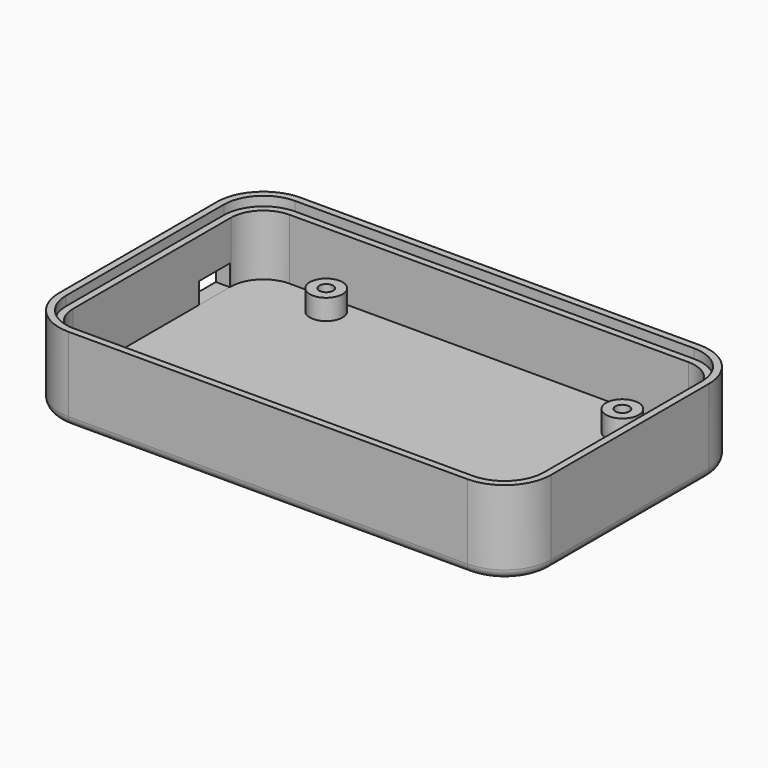
from build123d import *

# Parameters (mm, degrees)
PAD_DEPTH       = 13
PAD001_DEPTH    = 3
SKETCH002_R     = 1.5
POCKET_DEPTH    = 3.001
SKETCH003_R     = 3.5
SKETCH003_R_2   = 1.5
PAD002_DEPTH    = 4.4
PAD003_DEPTH    = 2
SKETCH014_W     = 8.25
SKETCH014_H     = 4.5
POCKET006_DEPTH = 3
PAD010_DEPTH    = 1.5
FILLET001_R     = 2
FILLET003_R     = 0.25


with BuildPart() as part:
    # Sketch → Pad (new body)
    with BuildSketch(Plane.XY.offset(-6)):
        with BuildLine():
            Line((3.5, 58.5), (89, 58.5))
            ThreePointArc((99, 48.5), (96.071068, 55.571068), (89, 58.5))
            Line((99, 48.5), (99, 6.25))
            ThreePointArc((89, -3.75), (96.071068, -0.821068), (99, 6.25))
            Line((89, -3.75), (3.5, -3.75))
            ThreePointArc((-6.5, 6.25), (-3.571068, -0.821068), (3.5, -3.75))
            Line((-6.5, 6.25), (-6.5, 48.5))
            ThreePointArc((3.5, 58.5), (-3.571068, 55.571068), (-6.5, 48.5))
        make_face()
        with BuildLine():
            Line((3.5, 55.5), (89, 55.5))
            ThreePointArc((96, 48.5), (93.949747, 53.449747), (89, 55.5))
            Line((96, 48.5), (96, 6.25))
            ThreePointArc((89, -0.75), (93.949747, 1.300253), (96, 6.25))
            Line((89, -0.75), (3.5, -0.75))
            ThreePointArc((-3.5, 6.25), (-1.449747, 1.300253), (3.5, -0.75))
            Line((-3.5, 6.25), (-3.5, 48.5))
            ThreePointArc((3.5, 55.5), (-1.449747, 53.449747), (-3.5, 48.5))
        make_face(mode=Mode.SUBTRACT)
    extrude(amount=PAD_DEPTH)

    # Sketch001 → Pad001 (new body)
    with BuildSketch(Plane(origin=(0, 0, -6), x_dir=(1, 0, 0), z_dir=(0, 0, -1))):
        with BuildLine():
            Line((3.5, 3.75), (89, 3.75))
            ThreePointArc((99, -6.25), (96.071068, 0.821068), (89, 3.75))
            Line((99, -6.25), (99, -48.5))
            ThreePointArc((89, -58.5), (96.071068, -55.571068), (99, -48.5))
            Line((89, -58.5), (3.5, -58.5))
            ThreePointArc((-6.5, -48.5), (-3.571068, -55.571068), (3.5, -58.5))
            Line((-6.5, -48.5), (-6.5, -6.25))
            ThreePointArc((3.5, 3.75), (-3.571068, 0.821068), (-6.5, -6.25))
        make_face()
    extrude(amount=PAD001_DEPTH)

    # Sketch002 → Pocket (cut, through all)
    with BuildSketch(Plane.XY.offset(-6)):
        with Locations((14.6, 51.45)):
            Circle(SKETCH002_R)
        with Locations((14.6, 3.15)):
            Circle(SKETCH002_R)
        with Locations((80.65, 48.25)):
            Circle(SKETCH002_R)
        with Locations((80.65, 6.35)):
            Circle(SKETCH002_R)
    extrude(amount=-POCKET_DEPTH, mode=Mode.SUBTRACT)

    # Sketch003 → Pad002 (new body)
    with BuildSketch(Plane.XY.offset(-6)):
        with Locations((14.6, 3.15)):
            Circle(SKETCH003_R)
        with Locations((14.6, 3.15)):
            Circle(SKETCH003_R_2, mode=Mode.SUBTRACT)
        with Locations((14.6, 51.45)):
            Circle(SKETCH003_R)
        with Locations((14.6, 51.45)):
            Circle(SKETCH003_R_2, mode=Mode.SUBTRACT)
        with Locations((80.65, 6.35)):
            Circle(SKETCH003_R)
        with Locations((80.65, 6.35)):
            Circle(SKETCH003_R_2, mode=Mode.SUBTRACT)
        with Locations((80.65, 48.25)):
            Circle(SKETCH003_R)
        with Locations((80.65, 48.25)):
            Circle(SKETCH003_R_2, mode=Mode.SUBTRACT)
    extrude(amount=PAD002_DEPTH)

    # Sketch004 → Pad003 (new body)
    with BuildSketch(Plane.XY.offset(7)):
        with BuildLine():
            Line((3.5, 58.5), (89, 58.5))
            ThreePointArc((99, 48.5), (96.071068, 55.571068), (89, 58.5))
            Line((99, 48.5), (99, 6.25))
            ThreePointArc((89, -3.75), (96.071068, -0.821068), (99, 6.25))
            Line((89, -3.75), (3.5, -3.75))
            ThreePointArc((-6.5, 6.25), (-3.571068, -0.821068), (3.5, -3.75))
            Line((-6.5, 6.25), (-6.5, 48.5))
            ThreePointArc((3.5, 58.5), (-3.571068, 55.571068), (-6.5, 48.5))
        make_face()
        with BuildLine():
            Line((3.5, 57), (89, 57))
            ThreePointArc((97.5, 48.5), (95.010408, 54.510408), (89, 57))
            Line((97.5, 48.5), (97.5, 6.25))
            ThreePointArc((89, -2.25), (95.010408, 0.239592), (97.5, 6.25))
            Line((89, -2.25), (3.5, -2.25))
            ThreePointArc((-5, 6.25), (-2.510408, 0.239592), (3.5, -2.25))
            Line((-5, 6.25), (-5, 48.5))
            ThreePointArc((3.5, 57), (-2.510408, 54.510408), (-5, 48.5))
        make_face(mode=Mode.SUBTRACT)
    extrude(amount=PAD003_DEPTH)

    # Sketch014 → Pocket006 (cut)
    with BuildSketch(Plane(origin=(-6.5, 0, -6), x_dir=(0, -1, 0), z_dir=(-1, 0, 0))):
        with Locations((-44.125, 2.25)):
            Rectangle(SKETCH014_W, SKETCH014_H)
    extrude(amount=-POCKET006_DEPTH, mode=Mode.SUBTRACT)

    # Sketch015002 → Pad010 (new body)
    with BuildSketch(Plane(origin=(0, 0, -9), x_dir=(1, 0, 0), z_dir=(0, 0, -1))):
        with BuildLine():
            Line((16, -8), (16, -22))
            ThreePointArc((14, -22), (15, -23), (16, -22))
            Line((14, -22), (14, -8))
            ThreePointArc((16, -8), (15, -7), (14, -8))
        make_face()
        with BuildLine():
            Line((22, -8), (22, -26))
            ThreePointArc((20, -26), (21, -27), (22, -26))
            Line((20, -26), (20, -8))
            ThreePointArc((22, -8), (21, -7), (20, -8))
        make_face()
        with BuildLine():
            Line((28, -8), (28, -30))
            ThreePointArc((26, -30), (27, -31), (28, -30))
            Line((26, -30), (26, -8))
            ThreePointArc((28, -8), (27, -7), (26, -8))
        make_face()
        with BuildLine():
            Line((34, -8), (34, -34))
            ThreePointArc((32, -34), (33, -35), (34, -34))
            Line((32, -34), (32, -8))
            ThreePointArc((34, -8), (33, -7), (32, -8))
        make_face()
        with BuildLine():
            Line((40, -8), (40, -38))
            ThreePointArc((38, -38), (39, -39), (40, -38))
            Line((38, -38), (38, -8))
            ThreePointArc((40, -8), (39, -6.999994), (38, -8))
        make_face()
        with BuildLine():
            Line((46, -8), (46, -42))
            ThreePointArc((44, -42), (45, -42.999994), (46, -42))
            Line((44, -42), (44, -8))
            ThreePointArc((46, -8), (45, -6.999994), (44, -8))
        make_face()
        with BuildLine():
            Line((52, -8), (52, -46))
            ThreePointArc((50, -46), (51, -46.999994), (52, -46))
            Line((50, -46), (50, -8))
            ThreePointArc((52, -8), (51, -6.999994), (50, -8))
        make_face()
        with BuildLine():
            Line((58, -8), (58, -46))
            ThreePointArc((56, -46), (57, -46.999994), (58, -46))
            Line((56, -46), (56, -8))
            ThreePointArc((58, -8), (57, -6.999994), (56, -8))
        make_face()
        with BuildLine():
            Line((64, -8), (64, -46))
            ThreePointArc((62, -46), (63, -46.999994), (64, -46))
            Line((62, -46), (62, -8))
            ThreePointArc((64, -8), (63, -6.999994), (62, -8))
        make_face()
        with BuildLine():
            Line((70, -8), (70, -46))
            ThreePointArc((68, -46), (69, -46.999994), (70, -46))
            Line((68, -46), (68, -8))
            ThreePointArc((70, -8), (69, -6.999994), (68, -8))
        make_face()
    extrude(amount=PAD010_DEPTH)

    # Fillet001
    fillet001_edges = [part.edges().sort_by_distance(p)[0] for p in [
        (46.25, -3.75, -9),
    ]]
    fillet(fillet001_edges, radius=FILLET001_R)

    # Fillet003
    fillet003_edges = [part.edges().sort_by_distance(p)[0] for p in [
        (14, 15, -10.5),
        (15, 7, -10.5),
        (16, 15, -10.5),
        (15, 23, -10.5),
        (20, 17, -10.5),
        (21, 7, -10.5),
        (22, 17, -10.5),
        (21, 27, -10.5),
        (27, 31, -10.5),
        (26, 19, -10.5),
        (27, 7, -10.5),
        (28, 19, -10.5),
        (33, 35, -10.5),
        (32, 21, -10.5),
        (33, 7, -10.5),
        (34, 21, -10.5),
        (39, 6.999994, -10.5),
        (40, 23, -10.5),
        (39, 39, -10.5),
        (38, 23, -10.5),
        (45, 42.999994, -10.5),
        (44, 25, -10.5),
        (45, 6.999994, -10.5),
        (46, 25, -10.5),
        (50, 27, -10.5),
        (51, 6.999994, -10.5),
        (52, 27, -10.5),
        (51, 46.999994, -10.5),
        (57, 6.999994, -10.5),
        (58, 27, -10.5),
        (57, 46.999994, -10.5),
        (56, 27, -10.5),
        (63, 6.999994, -10.5),
        (64, 27, -10.5),
        (63, 46.999994, -10.5),
        (62, 27, -10.5),
        (69, 6.999994, -10.5),
        (70, 27, -10.5),
        (69, 46.999994, -10.5),
        (68, 27, -10.5),
    ]]
    fillet(fillet003_edges, radius=FILLET003_R)


solid = part.part
